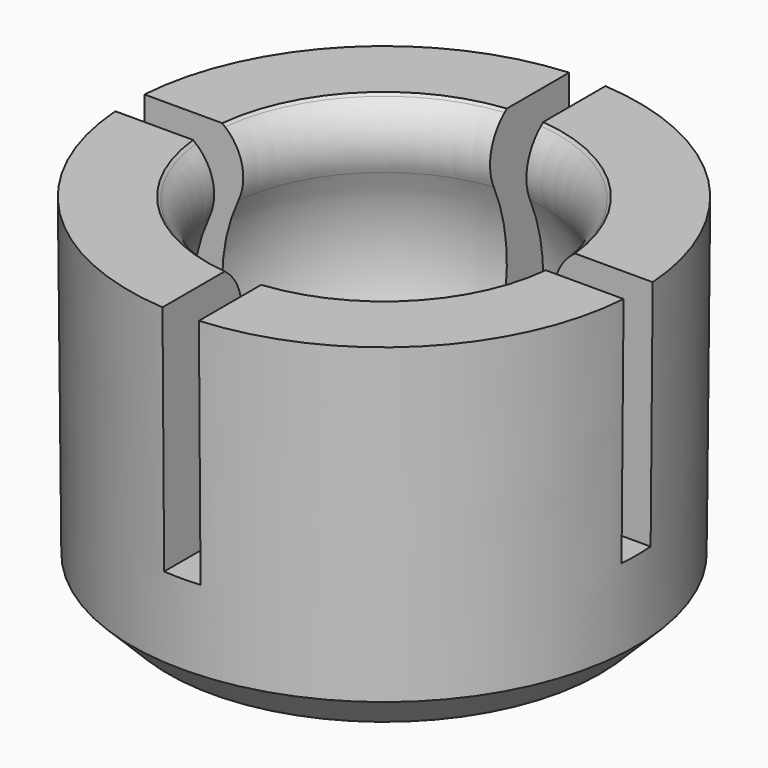
from build123d import *

# Parameters (mm, degrees)
POCKET_DEPTH = 6.413333


with BuildPart() as part:
    # Sketch001 → Revolution (revolve)
    with BuildSketch(Plane.XZ):
        with BuildLine():
            ThreePointArc((-4.423636, 7.90675), (-4.652325, 4.430289), (-2.5, 1.690658))
            Line((-2.5, 0), (-2.5, 1.690658))
            Line((-5.925, 0), (-2.5, 0))
            Line((-6.925, 1), (-5.925, 0))
            Line((-6.925, 1), (-7, 9.62))
            Line((-7, 9.62), (-4.87, 9.62))
            Line((-4.87, 9.62), (-4.793396, 9.555721))
            ThreePointArc((-4.423636, 7.90675), (-4.329753, 8.793744), (-4.793396, 9.555721))
        make_face()
    revolve(axis=Axis((0, 0, 0), (0, 0, 1)))

    # Sketch (on Face6 of Revolution) → Pocket (cut)
    with BuildSketch(Plane(origin=(0, 0, 9.62), x_dir=(-1, 0, 0), z_dir=(0, 0, 1))):
        Polygon((-0.5, 14.35), (-0.5, 0.5), (-14.35, 0.5), (-14.35, -0.5), (-0.5, -0.5), (-0.5, -14.35), (0.5, -14.35), (0.5, -0.5), (14.35, -0.5), (14.35, 0.5), (0.5, 0.5), (0.5, 14.35), align=None)
    extrude(amount=-POCKET_DEPTH, mode=Mode.SUBTRACT)


solid = part.part
